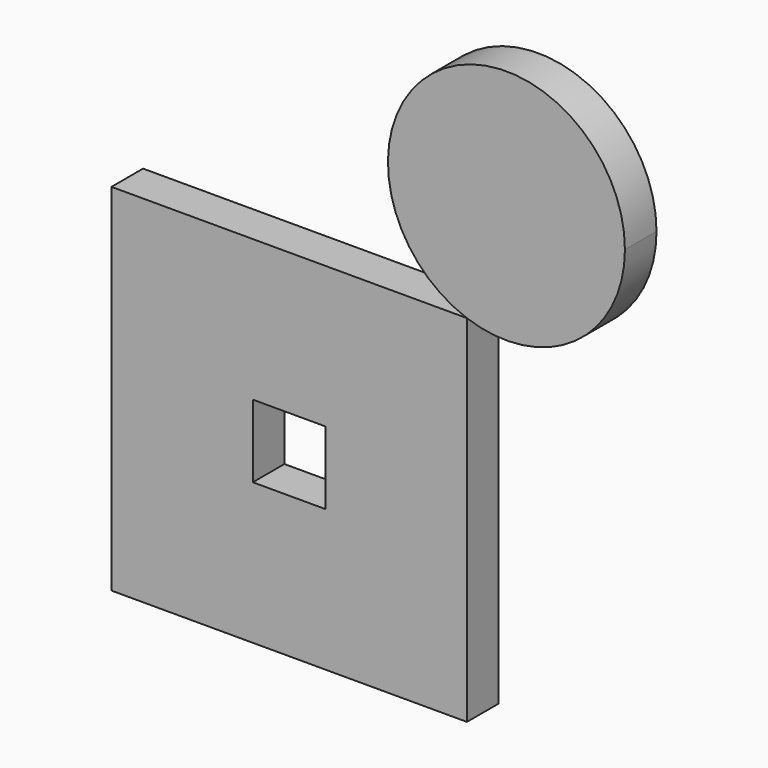
from build123d import *

# Parameters (mm, degrees)
F0_W     = 228.6
F0_H     = 228.6
F0_W_2   = 46.7980969906
F0_H_2   = 46.7980969906
F1_DEPTH = 25.4


with BuildPart() as f1:
    # F0 (on Front) → F1 (new body)
    with BuildSketch(Plane.XZ):
        with Locations((-139.7, 139.7)):
            Rectangle(F0_W, F0_H)
        with Locations((-139.7, 139.7)):
            Rectangle(F0_W_2, F0_H_2, mode=Mode.SUBTRACT)
    extrude(amount=F1_DEPTH)


with BuildPart() as f1b:
    # F0 (on Front) → F1, piece 2 (new body)
    with BuildSketch(Plane.XZ):
        with BuildLine():
            ThreePointArc((76.2, 325.8420489686), (-43.9940905122, 388.0590884352), (-25.4, 254))
            ThreePointArc((-25.4, 254), (43.9940905122, 263.6250095019), (76.2, 325.8420489686))
        make_face()
    extrude(amount=F1_DEPTH)


solid = Compound([f1.part, f1b.part])
